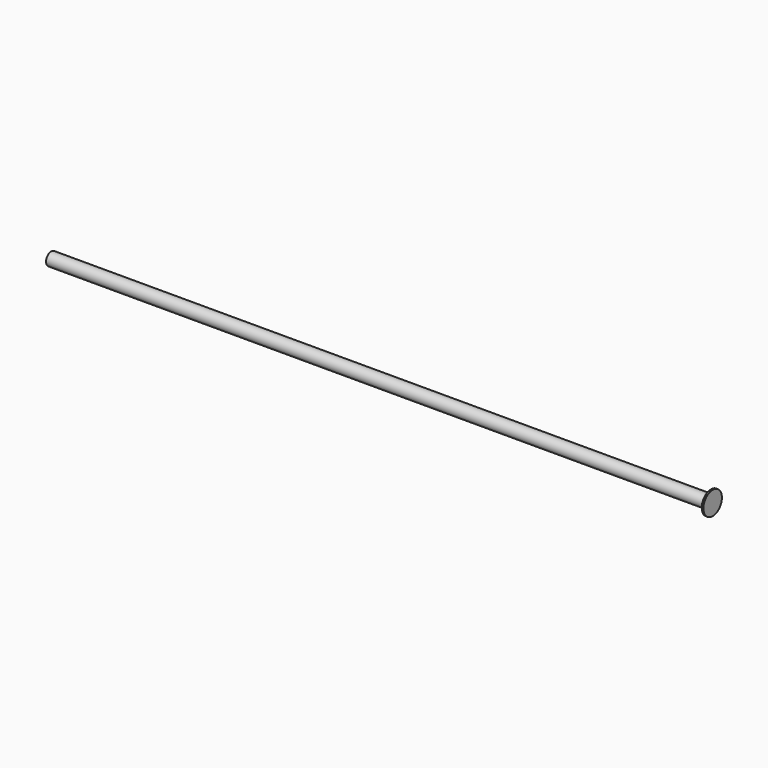
from build123d import *

# Parameters (mm, degrees)
F0_R     = 0.975
F1_DEPTH = 100
F2_R     = 1.75
F3_DEPTH = 0.25


with BuildPart() as f1:
    # F0 (on Right) → F1 (new body)
    with BuildSketch(Plane.YZ):
        Circle(F0_R)
    extrude(amount=-F1_DEPTH)

    # F2 (on face) → F3 (join)
    with BuildSketch(Plane.YZ):
        Circle(F2_R)
    extrude(amount=-F3_DEPTH)


solid = f1.part
